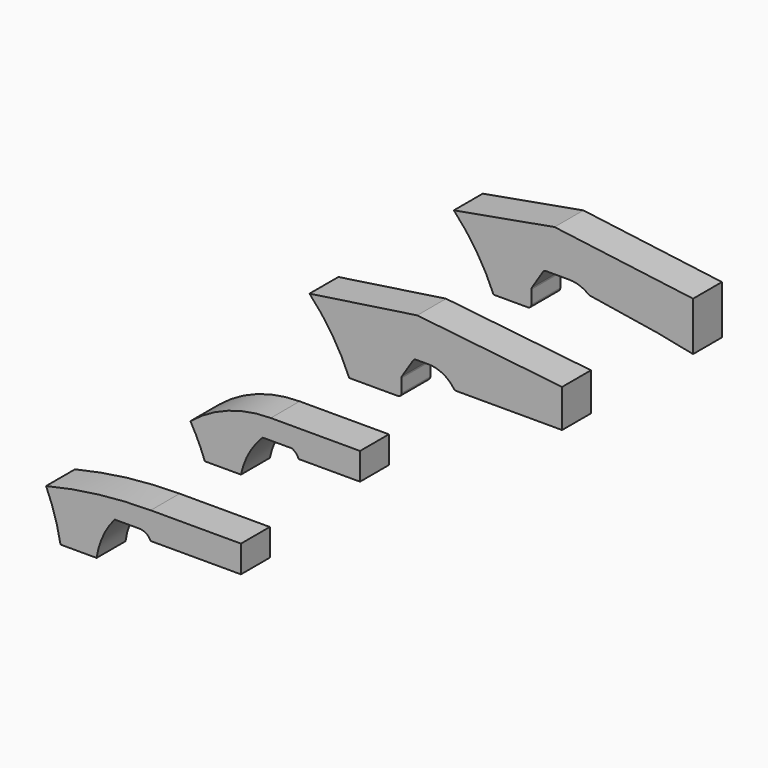
from build123d import *

# Parameters (mm, degrees)
F1_DEPTH  = 10
F4_DEPTH  = 10
F7_DEPTH  = 10
F10_DEPTH = 10


with BuildPart() as f1:
    # F0 (on Front) → F1 (new body)
    with BuildSketch(Plane.XZ):
        with BuildLine():
            ThreePointArc((-11, 17), (-4.710931, 9.010574), (0, 0))
            Line((0, 0), (9.5, 0))
            ThreePointArc((9.5, 0), (10.207107, 0.292893), (10.5, 1))
            Line((10.5, 1), (10.5, 4.707779))
            ThreePointArc((10.5, 4.707779), (10.540143, 4.988269), (10.65735, 5.24624))
            Line((10.65735, 5.24624), (13.705072, 10.015687))
            ThreePointArc((13.705072, 10.015687), (14.067338, 10.354284), (14.547723, 10.477226))
            Line((14.547723, 10.477226), (21, 10.477226))
            ThreePointArc((21, 10.477226), (23.792353, 10.005474), (26.274753, 8.642582))
            ThreePointArc((26.274753, 8.642582), (26.420907, 8.546435), (26.581581, 8.47723))
            Line((26.581581, 8.47723), (45.291543, 5.47723))
            Line((45.291543, 5.47723), (55.291543, 3.47723))
            Line((55.291543, 3.47723), (55.291543, 17))
            Line((55.291543, 17), (16.90484, 21.994406))
            Line((16.90484, 21.994406), (-11, 17))
        make_face()
    extrude(amount=F1_DEPTH)


with BuildPart() as f4:
    # F3 (on offset) → F4 (new body)
    with BuildSketch(Plane.XZ.offset(50)):
        with BuildLine():
            ThreePointArc((-11, 17), (-4.710931, 9.010574), (0, 0))
            Line((0, 0), (13.5, 0))
            ThreePointArc((13.5, 0), (14.207107, 0.292893), (14.5, 1))
            Line((14.5, 1), (14.5, 4.707779))
            ThreePointArc((14.5, 4.707779), (14.540143, 4.988269), (14.65735, 5.24624))
            Line((14.65735, 5.24624), (17.705072, 10.015687))
            ThreePointArc((17.705072, 10.015687), (18.067338, 10.354284), (18.547723, 10.477226))
            Line((18.547723, 10.477226), (22, 10.477226))
            ThreePointArc((22, 10.477226), (25.900067, 9.529674), (28.930602, 6.898278))
            ThreePointArc((28.930602, 6.898278), (29.287135, 6.588702), (29.745967, 6.477226))
            Line((29.745967, 6.477226), (59, 6.477226))
            Line((59, 6.477226), (59, 17))
            Line((59, 17), (18.85245, 21.403823))
            Line((18.85245, 21.403823), (-11, 17))
        make_face()
    extrude(amount=F4_DEPTH)


with BuildPart() as f7:
    # F6 (on offset) → F7 (new body)
    with BuildSketch(Plane.XZ.offset(100)):
        with BuildLine():
            ThreePointArc((-4, 8.5), (-1.81819, 4.335558), (0, 0))
            Line((0, 0), (10, 0))
            ThreePointArc((10, 0), (12.200322, 5.936188), (16, 11))
            Line((16, 11), (24.091514, 11))
            ThreePointArc((24.091514, 11), (25.251585, 10.19641), (26, 9))
            Line((26, 9), (43, 9))
            Line((43, 9), (43, 16.5))
            Line((43, 16.5), (18.271057, 16.5))
            ThreePointArc((18.271057, 16.5), (6.438898, 14.439338), (-4, 8.5))
        make_face()
    extrude(amount=F7_DEPTH)


with BuildPart() as f10:
    # F9 (on offset) → F10 (new body)
    with BuildSketch(Plane.XZ.offset(150)):
        with BuildLine():
            ThreePointArc((-4, 13), (-1.59659, 6.624126), (0, 0))
            Line((0, 0), (10, 0))
            ThreePointArc((10, 0), (11.730008, 5.849996), (15, 11))
            Line((15, 11), (22, 11))
            Line((22, 11), (25, 11))
            Line((25, 11), (25, 16.5))
            ThreePointArc((25, 16.5), (10.394778, 15.621837), (-4, 13))
        make_face()
        Polygon((50, 16.5), (25, 16.5), (25, 11), (25, 9), (50, 9), align=None)
        with BuildLine():
            Line((25, 9), (25, 11))
            Line((25, 11), (22, 11))
            ThreePointArc((22, 11), (23.77735, 10.416025), (25, 9))
        make_face()
    extrude(amount=F10_DEPTH)


solid = Compound([f1.part, f4.part, f7.part, f10.part])
